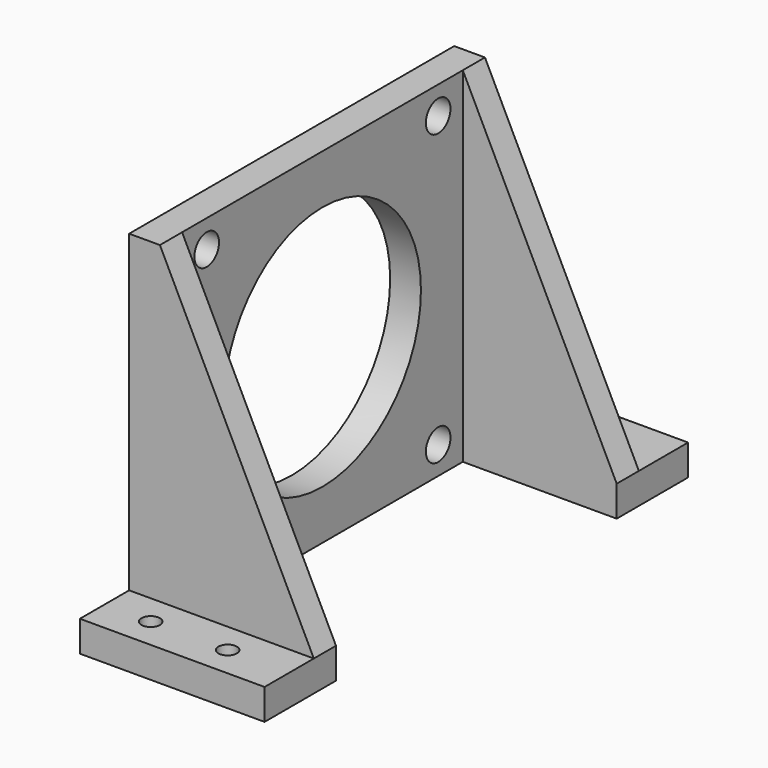
from build123d import *

# Parameters (mm, degrees)
PAD_DEPTH       = 86
SKETCH001_W     = 59.039818
SKETCH001_H     = 57
POCKET_DEPTH    = 56.001
SKETCH002_W     = 74.051056
SKETCH002_H     = 10
SKETCH002_W_2   = 70.317291
POCKET001_DEPTH = 51
SKETCH003_R     = 1.5
POCKET002_DEPTH = 5.001
SKETCH005_R     = 20
POCKET003_DEPTH = 30.001
SKETCH006_R     = 2.5
POCKET004_DEPTH = 30.001


with BuildPart() as part:
    # Sketch → Pad (new body)
    with BuildSketch(Plane.XZ):
        Polygon((0, 0), (30, 0), (30, 5), (5, 56), (0, 56), align=None)
    extrude(amount=PAD_DEPTH)

    # Sketch001 (on Face4 of Pad) → Pocket (cut, through all)
    with BuildSketch(Plane(origin=(0, 0, 56), x_dir=(-1, 0, 0), z_dir=(0, 0, 1))):
        with Locations((-34.519909, 43)):
            Rectangle(SKETCH001_W, SKETCH001_H)
    extrude(amount=-POCKET_DEPTH, mode=Mode.SUBTRACT)

    # Sketch002 (on Face11 of Pocket) → Pocket001 (cut)
    with BuildSketch(Plane(origin=(0, 0, 56), x_dir=(-1, 0, 0), z_dir=(0, 0, 1))):
        with Locations((-37.025528, 81)):
            Rectangle(SKETCH002_W, SKETCH002_H)
        with Locations((-35.158645, 5)):
            Rectangle(SKETCH002_W_2, SKETCH002_H)
    extrude(amount=-POCKET001_DEPTH, mode=Mode.SUBTRACT)

    # Sketch003 (on Face14 of Pocket001) → Pocket002 (cut, through all)
    with BuildSketch(Plane(origin=(0, 0, 5), x_dir=(-1, 0, 0), z_dir=(0, 0, 1))):
        with Locations((-20, 81)):
            Circle(SKETCH003_R)
        with Locations((-7.5, 81)):
            Circle(SKETCH003_R)
        with Locations((-20, 5)):
            Circle(SKETCH003_R)
        with Locations((-7.5, 5)):
            Circle(SKETCH003_R)
    extrude(amount=-POCKET002_DEPTH, mode=Mode.SUBTRACT)

    # Sketch005 (on Face3 of Pocket002) → Pocket003 (cut, through all)
    with BuildSketch(Plane(origin=(0, 0, 0), x_dir=(0, 0, -1), z_dir=(-1, 0, 0))):
        with Locations((-28, 43)):
            Circle(SKETCH005_R)
    extrude(amount=-POCKET003_DEPTH, mode=Mode.SUBTRACT)

    # Sketch006 (on Face3 of Pocket003) → Pocket004 (cut, through all)
    with BuildSketch(Plane(origin=(0, 0, 0), x_dir=(0, 0, -1), z_dir=(-1, 0, 0))):
        with Locations((-51.5, 66.5)):
            Circle(SKETCH006_R)
        with Locations((-4.5, 66.5)):
            Circle(SKETCH006_R)
        with Locations((-51.5, 19.5)):
            Circle(SKETCH006_R)
        with Locations((-4.5, 19.5)):
            Circle(SKETCH006_R)
    extrude(amount=-POCKET004_DEPTH, mode=Mode.SUBTRACT)


solid = part.part
